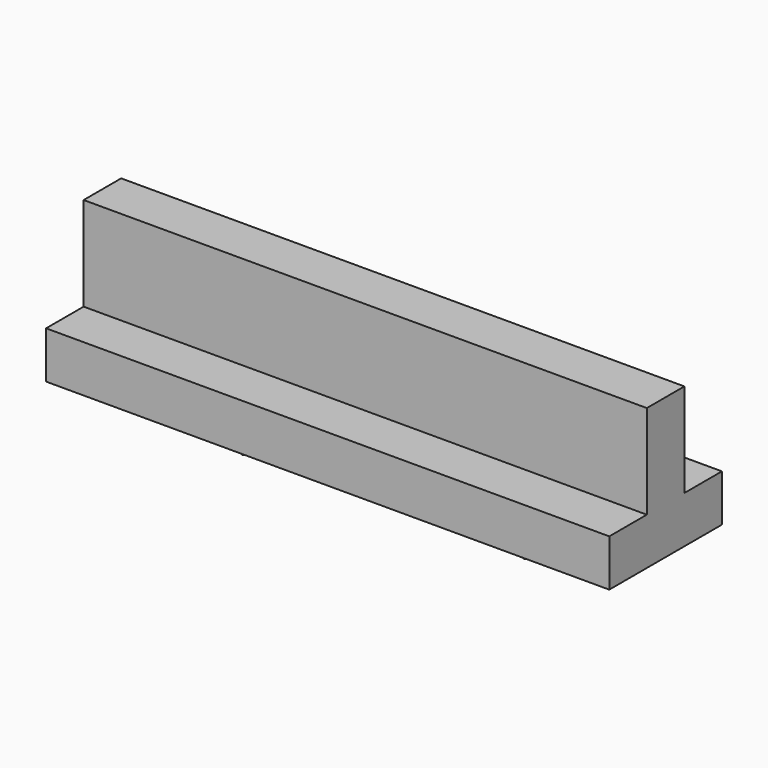
from build123d import *

# Parameters (mm, degrees)
F0_W     = 304.8
F0_H     = 76.2
F1_DEPTH = 25.4
F2_W     = 304.8
F2_H     = 25.4
F3_DEPTH = 50.8
F4_R     = 12.5
F5_DEPTH = 25.4
F6_SIZE  = 12


with BuildPart() as f1:
    # F0 (on Top) → F1 (new body)
    with BuildSketch(Plane.XY):
        Rectangle(F0_W, F0_H)
    extrude(amount=F1_DEPTH)

    # F2 (on face) → F3 (join)
    with BuildSketch(Plane.XY.offset(25.4)):
        Rectangle(F2_W, F2_H)
    extrude(amount=F3_DEPTH)

    # F4 (on face) → F5 (join)
    with BuildSketch(Plane(origin=(0, 0, 0), x_dir=(1, 0, 0), z_dir=(0, 0, -1))):
        with Locations((-76.2, 0)):
            Circle(F4_R)
        with Locations((76.2, 0)):
            Circle(F4_R)
    extrude(amount=F5_DEPTH)

    # F6
    f6_edges = [f1.edges().sort_by_distance(p)[0] for p in [
        (-88.7, 0, -25.4),
        (63.7, 0, -25.4),
    ]]
    chamfer(f6_edges, length=F6_SIZE)


solid = f1.part
